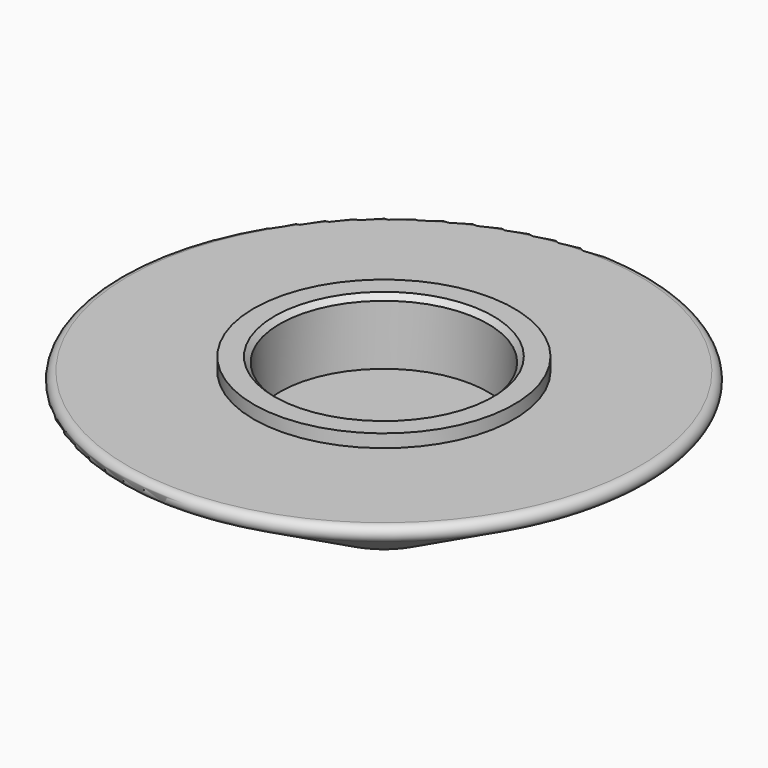
from build123d import *

# Parameters (mm, degrees)
F0_W    = 1
F0_H    = 0.5
F2_R    = 0.3
F3_SIZE = 0.5
F4_SIZE = 0.2


with BuildPart() as f1:
    # F0 (on Front) → F1 (revolve)
    with BuildSketch(Plane.XZ):
        Polygon((-4, -2), (-4, 0), (-5, 0), (-11, 0), (-2, -5), (0, -3.733945), (0, -2), align=None)
        with Locations((-4.5, 0.25)):
            Rectangle(F0_W, F0_H)
    revolve(axis=Axis((0, 0, -1.866972), (0, 0, -1)))

    # F2
    f2_edges = [f1.edges().sort_by_distance(p)[0] for p in [
        (11, 0, 0),
    ]]
    fillet(f2_edges, radius=F2_R)

    # F3
    f3_edges = [f1.edges().sort_by_distance(p)[0] for p in [
        (2, 0, -5),
    ]]
    chamfer(f3_edges, length=F3_SIZE)

    # F4
    f4_edges = [f1.edges().sort_by_distance(p)[0] for p in [
        (4, 0, 0.5),
    ]]
    chamfer(f4_edges, length=F4_SIZE)


solid = f1.part
